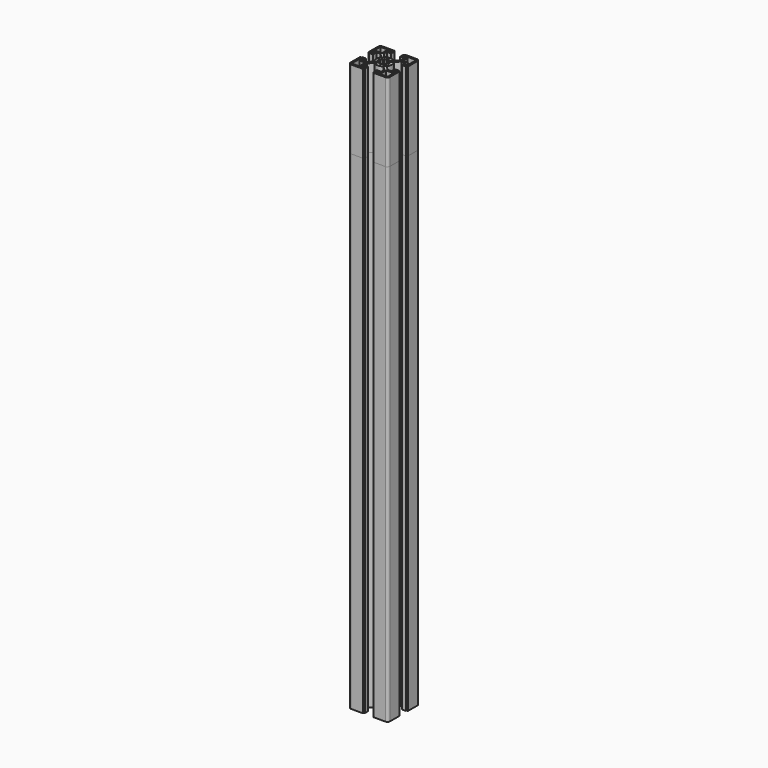
from build123d import *

# Parameters (mm, degrees)
F1_DEPTH = 540
F2_DEPTH = 649
F3_DEPTH = 559


with BuildPart() as f1:
    # F0 (on Top) → F1 (new body)
    with BuildSketch(Plane.XY):
        with BuildLine():
            Line((5, -16.5), (5, -21))
            Line((5, -21), (6, -21))
            Line((6, -21), (6, -22.5))
            Line((6, -22.5), (19.5, -22.5))
            ThreePointArc((19.5, -22.5), (21.62132, -21.62132), (22.5, -19.5))
            Line((22.5, -19.5), (22.5, -6))
            Line((22.5, -6), (21, -6))
            Line((21, -6), (21, -5))
            Line((21, -5), (16.5, -5))
            Line((16.5, -5), (16.5, -10))
            Line((16.5, -10), (11.979899, -10))
            Line((11.979899, -10), (7.276443, -5.296544))
            ThreePointArc((7.276443, -5.296544), (9, 0), (7.276443, 5.296544))
            Line((7.276443, 5.296544), (11.979899, 10))
            Line((11.979899, 10), (16.5, 10))
            Line((16.5, 10), (16.5, 5))
            Line((16.5, 5), (21, 5))
            Line((21, 5), (21, 6))
            Line((21, 6), (22.5, 6))
            Line((22.5, 6), (22.5, 19.5))
            ThreePointArc((22.5, 19.5), (21.62132, 21.62132), (19.5, 22.5))
            Line((19.5, 22.5), (6, 22.5))
            Line((6, 22.5), (6, 21))
            Line((6, 21), (5, 21))
            Line((5, 21), (5, 16.5))
            Line((5, 16.5), (10, 16.5))
            Line((10, 16.5), (10, 11.979899))
            Line((10, 11.979899), (5.296544, 7.276443))
            ThreePointArc((5.296544, 7.276443), (0, 9), (-5.296544, 7.276443))
            Line((-5.296544, 7.276443), (-10, 11.979899))
            Line((-10, 11.979899), (-10, 16.5))
            Line((-10, 16.5), (-5, 16.5))
            Line((-5, 16.5), (-5, 21))
            Line((-5, 21), (-6, 21))
            Line((-6, 21), (-6, 22.5))
            Line((-6, 22.5), (-19.5, 22.5))
            ThreePointArc((-19.5, 22.5), (-21.62132, 21.62132), (-22.5, 19.5))
            Line((-22.5, 19.5), (-22.5, 6))
            Line((-22.5, 6), (-21, 6))
            Line((-21, 6), (-21, 5))
            Line((-21, 5), (-16.5, 5))
            Line((-16.5, 5), (-16.5, 10))
            Line((-16.5, 10), (-11.979899, 10))
            Line((-11.979899, 10), (-7.276443, 5.296544))
            ThreePointArc((-7.276443, 5.296544), (-9, 0), (-7.276443, -5.296544))
            Line((-7.276443, -5.296544), (-11.979899, -10))
            Line((-11.979899, -10), (-16.5, -10))
            Line((-16.5, -10), (-16.5, -5))
            Line((-16.5, -5), (-21, -5))
            Line((-21, -5), (-21, -6))
            Line((-21, -6), (-22.5, -6))
            Line((-22.5, -6), (-22.5, -19.5))
            ThreePointArc((-22.5, -19.5), (-21.62132, -21.62132), (-19.5, -22.5))
            Line((-19.5, -22.5), (-6, -22.5))
            Line((-6, -22.5), (-6, -21))
            Line((-6, -21), (-5, -21))
            Line((-5, -21), (-5, -16.5))
            Line((-5, -16.5), (-10, -16.5))
            Line((-10, -16.5), (-10, -11.979899))
            Line((-10, -11.979899), (-5.296544, -7.276443))
            ThreePointArc((-5.296544, -7.276443), (0, -9), (5.296544, -7.276443))
            Line((5.296544, -7.276443), (10, -11.979899))
            Line((10, -11.979899), (10, -16.5))
            Line((10, -16.5), (5, -16.5))
        make_face()
        Polygon((-18.500101, -11.98), (-11.98, -11.98), (-11.98, -18.500101), (-7.000101, -18.500101), (-7.000101, -20.500101), (-20.500101, -20.500101), (-20.500101, -7.000101), (-18.500101, -7.000101), align=None, mode=Mode.SUBTRACT)
        Polygon((11.98, -11.98), (18.500101, -11.98), (18.500101, -7.000101), (20.500101, -7.000101), (20.500101, -20.500101), (7.000101, -20.500101), (7.000101, -18.500101), (11.98, -18.500101), align=None, mode=Mode.SUBTRACT)
        Polygon((-20.500101, 20.500101), (-7.000101, 20.500101), (-7.000101, 18.500101), (-11.98, 18.500101), (-11.98, 11.98), (-18.500101, 11.98), (-18.500101, 7.000101), (-20.500101, 7.000101), align=None, mode=Mode.SUBTRACT)
        with BuildLine():
            ThreePointArc((0.749402, 4.943521), (1.874247, 4.635429), (2.897117, 4.075133))
            Line((2.897117, 4.075133), (4.635387, 6.520213))
            ThreePointArc((4.635387, 6.520213), (5.656854, 5.656854), (6.520213, 4.635387))
            Line((6.520213, 4.635387), (4.075133, 2.897117))
            ThreePointArc((4.075133, 2.897117), (4.635429, 1.874247), (4.943521, 0.749402))
            Line((4.943521, 0.749402), (5.932225, 0.899283))
            ThreePointArc((5.932225, 0.899283), (6, 0), (5.932225, -0.899283))
            Line((5.932225, -0.899283), (4.943521, -0.749402))
            ThreePointArc((4.943521, -0.749402), (4.635429, -1.874247), (4.075133, -2.897117))
            Line((4.075133, -2.897117), (6.520213, -4.635387))
            ThreePointArc((6.520213, -4.635387), (5.656854, -5.656854), (4.635387, -6.520213))
            Line((4.635387, -6.520213), (2.897117, -4.075133))
            ThreePointArc((2.897117, -4.075133), (1.874247, -4.635429), (0.749402, -4.943521))
            Line((0.749402, -4.943521), (0.899283, -5.932225))
            ThreePointArc((0.899283, -5.932225), (0, -6), (-0.899283, -5.932225))
            Line((-0.899283, -5.932225), (-0.749402, -4.943521))
            ThreePointArc((-0.749402, -4.943521), (-1.874247, -4.635429), (-2.897117, -4.075133))
            Line((-2.897117, -4.075133), (-4.635387, -6.520213))
            ThreePointArc((-4.635387, -6.520213), (-5.656854, -5.656854), (-6.520213, -4.635387))
            Line((-6.520213, -4.635387), (-4.075133, -2.897117))
            ThreePointArc((-4.075133, -2.897117), (-4.635429, -1.874247), (-4.943521, -0.749402))
            Line((-4.943521, -0.749402), (-5.932225, -0.899283))
            ThreePointArc((-5.932225, -0.899283), (-6, 0), (-5.932225, 0.899283))
            Line((-5.932225, 0.899283), (-4.943521, 0.749402))
            ThreePointArc((-4.943521, 0.749402), (-4.635429, 1.874247), (-4.075133, 2.897117))
            Line((-4.075133, 2.897117), (-6.520213, 4.635387))
            ThreePointArc((-6.520213, 4.635387), (-5.656854, 5.656854), (-4.635387, 6.520213))
            Line((-4.635387, 6.520213), (-2.897117, 4.075133))
            ThreePointArc((-2.897117, 4.075133), (-1.874247, 4.635429), (-0.749402, 4.943521))
            Line((-0.749402, 4.943521), (-0.899283, 5.932225))
            ThreePointArc((-0.899283, 5.932225), (0, 6), (0.899283, 5.932225))
            Line((0.899283, 5.932225), (0.749402, 4.943521))
        make_face(mode=Mode.SUBTRACT)
        Polygon((18.500101, 11.98), (11.98, 11.98), (11.98, 18.500101), (7.000101, 18.500101), (7.000101, 20.500101), (20.500101, 20.500101), (20.500101, 7.000101), (18.500101, 7.000101), align=None, mode=Mode.SUBTRACT)
    extrude(amount=F1_DEPTH)


with BuildPart() as f2:
    # F0 (on Top) → F2 (new body)
    with BuildSketch(Plane.XY):
        with BuildLine():
            Line((5, -16.5), (5, -21))
            Line((5, -21), (6, -21))
            Line((6, -21), (6, -22.5))
            Line((6, -22.5), (19.5, -22.5))
            ThreePointArc((19.5, -22.5), (21.62132, -21.62132), (22.5, -19.5))
            Line((22.5, -19.5), (22.5, -6))
            Line((22.5, -6), (21, -6))
            Line((21, -6), (21, -5))
            Line((21, -5), (16.5, -5))
            Line((16.5, -5), (16.5, -10))
            Line((16.5, -10), (11.979899, -10))
            Line((11.979899, -10), (7.276443, -5.296544))
            ThreePointArc((7.276443, -5.296544), (9, 0), (7.276443, 5.296544))
            Line((7.276443, 5.296544), (11.979899, 10))
            Line((11.979899, 10), (16.5, 10))
            Line((16.5, 10), (16.5, 5))
            Line((16.5, 5), (21, 5))
            Line((21, 5), (21, 6))
            Line((21, 6), (22.5, 6))
            Line((22.5, 6), (22.5, 19.5))
            ThreePointArc((22.5, 19.5), (21.62132, 21.62132), (19.5, 22.5))
            Line((19.5, 22.5), (6, 22.5))
            Line((6, 22.5), (6, 21))
            Line((6, 21), (5, 21))
            Line((5, 21), (5, 16.5))
            Line((5, 16.5), (10, 16.5))
            Line((10, 16.5), (10, 11.979899))
            Line((10, 11.979899), (5.296544, 7.276443))
            ThreePointArc((5.296544, 7.276443), (0, 9), (-5.296544, 7.276443))
            Line((-5.296544, 7.276443), (-10, 11.979899))
            Line((-10, 11.979899), (-10, 16.5))
            Line((-10, 16.5), (-5, 16.5))
            Line((-5, 16.5), (-5, 21))
            Line((-5, 21), (-6, 21))
            Line((-6, 21), (-6, 22.5))
            Line((-6, 22.5), (-19.5, 22.5))
            ThreePointArc((-19.5, 22.5), (-21.62132, 21.62132), (-22.5, 19.5))
            Line((-22.5, 19.5), (-22.5, 6))
            Line((-22.5, 6), (-21, 6))
            Line((-21, 6), (-21, 5))
            Line((-21, 5), (-16.5, 5))
            Line((-16.5, 5), (-16.5, 10))
            Line((-16.5, 10), (-11.979899, 10))
            Line((-11.979899, 10), (-7.276443, 5.296544))
            ThreePointArc((-7.276443, 5.296544), (-9, 0), (-7.276443, -5.296544))
            Line((-7.276443, -5.296544), (-11.979899, -10))
            Line((-11.979899, -10), (-16.5, -10))
            Line((-16.5, -10), (-16.5, -5))
            Line((-16.5, -5), (-21, -5))
            Line((-21, -5), (-21, -6))
            Line((-21, -6), (-22.5, -6))
            Line((-22.5, -6), (-22.5, -19.5))
            ThreePointArc((-22.5, -19.5), (-21.62132, -21.62132), (-19.5, -22.5))
            Line((-19.5, -22.5), (-6, -22.5))
            Line((-6, -22.5), (-6, -21))
            Line((-6, -21), (-5, -21))
            Line((-5, -21), (-5, -16.5))
            Line((-5, -16.5), (-10, -16.5))
            Line((-10, -16.5), (-10, -11.979899))
            Line((-10, -11.979899), (-5.296544, -7.276443))
            ThreePointArc((-5.296544, -7.276443), (0, -9), (5.296544, -7.276443))
            Line((5.296544, -7.276443), (10, -11.979899))
            Line((10, -11.979899), (10, -16.5))
            Line((10, -16.5), (5, -16.5))
        make_face()
        Polygon((-18.500101, -11.98), (-11.98, -11.98), (-11.98, -18.500101), (-7.000101, -18.500101), (-7.000101, -20.500101), (-20.500101, -20.500101), (-20.500101, -7.000101), (-18.500101, -7.000101), align=None, mode=Mode.SUBTRACT)
        Polygon((11.98, -11.98), (18.500101, -11.98), (18.500101, -7.000101), (20.500101, -7.000101), (20.500101, -20.500101), (7.000101, -20.500101), (7.000101, -18.500101), (11.98, -18.500101), align=None, mode=Mode.SUBTRACT)
        Polygon((-20.500101, 20.500101), (-7.000101, 20.500101), (-7.000101, 18.500101), (-11.98, 18.500101), (-11.98, 11.98), (-18.500101, 11.98), (-18.500101, 7.000101), (-20.500101, 7.000101), align=None, mode=Mode.SUBTRACT)
        with BuildLine():
            ThreePointArc((0.749402, 4.943521), (1.874247, 4.635429), (2.897117, 4.075133))
            Line((2.897117, 4.075133), (4.635387, 6.520213))
            ThreePointArc((4.635387, 6.520213), (5.656854, 5.656854), (6.520213, 4.635387))
            Line((6.520213, 4.635387), (4.075133, 2.897117))
            ThreePointArc((4.075133, 2.897117), (4.635429, 1.874247), (4.943521, 0.749402))
            Line((4.943521, 0.749402), (5.932225, 0.899283))
            ThreePointArc((5.932225, 0.899283), (6, 0), (5.932225, -0.899283))
            Line((5.932225, -0.899283), (4.943521, -0.749402))
            ThreePointArc((4.943521, -0.749402), (4.635429, -1.874247), (4.075133, -2.897117))
            Line((4.075133, -2.897117), (6.520213, -4.635387))
            ThreePointArc((6.520213, -4.635387), (5.656854, -5.656854), (4.635387, -6.520213))
            Line((4.635387, -6.520213), (2.897117, -4.075133))
            ThreePointArc((2.897117, -4.075133), (1.874247, -4.635429), (0.749402, -4.943521))
            Line((0.749402, -4.943521), (0.899283, -5.932225))
            ThreePointArc((0.899283, -5.932225), (0, -6), (-0.899283, -5.932225))
            Line((-0.899283, -5.932225), (-0.749402, -4.943521))
            ThreePointArc((-0.749402, -4.943521), (-1.874247, -4.635429), (-2.897117, -4.075133))
            Line((-2.897117, -4.075133), (-4.635387, -6.520213))
            ThreePointArc((-4.635387, -6.520213), (-5.656854, -5.656854), (-6.520213, -4.635387))
            Line((-6.520213, -4.635387), (-4.075133, -2.897117))
            ThreePointArc((-4.075133, -2.897117), (-4.635429, -1.874247), (-4.943521, -0.749402))
            Line((-4.943521, -0.749402), (-5.932225, -0.899283))
            ThreePointArc((-5.932225, -0.899283), (-6, 0), (-5.932225, 0.899283))
            Line((-5.932225, 0.899283), (-4.943521, 0.749402))
            ThreePointArc((-4.943521, 0.749402), (-4.635429, 1.874247), (-4.075133, 2.897117))
            Line((-4.075133, 2.897117), (-6.520213, 4.635387))
            ThreePointArc((-6.520213, 4.635387), (-5.656854, 5.656854), (-4.635387, 6.520213))
            Line((-4.635387, 6.520213), (-2.897117, 4.075133))
            ThreePointArc((-2.897117, 4.075133), (-1.874247, 4.635429), (-0.749402, 4.943521))
            Line((-0.749402, 4.943521), (-0.899283, 5.932225))
            ThreePointArc((-0.899283, 5.932225), (0, 6), (0.899283, 5.932225))
            Line((0.899283, 5.932225), (0.749402, 4.943521))
        make_face(mode=Mode.SUBTRACT)
        Polygon((18.500101, 11.98), (11.98, 11.98), (11.98, 18.500101), (7.000101, 18.500101), (7.000101, 20.500101), (20.500101, 20.500101), (20.500101, 7.000101), (18.500101, 7.000101), align=None, mode=Mode.SUBTRACT)
    extrude(amount=F2_DEPTH)


with BuildPart() as f3:
    # F0 (on Top) → F3 (new body)
    with BuildSketch(Plane.XY):
        with BuildLine():
            Line((5, -16.5), (5, -21))
            Line((5, -21), (6, -21))
            Line((6, -21), (6, -22.5))
            Line((6, -22.5), (19.5, -22.5))
            ThreePointArc((19.5, -22.5), (21.62132, -21.62132), (22.5, -19.5))
            Line((22.5, -19.5), (22.5, -6))
            Line((22.5, -6), (21, -6))
            Line((21, -6), (21, -5))
            Line((21, -5), (16.5, -5))
            Line((16.5, -5), (16.5, -10))
            Line((16.5, -10), (11.979899, -10))
            Line((11.979899, -10), (7.276443, -5.296544))
            ThreePointArc((7.276443, -5.296544), (9, 0), (7.276443, 5.296544))
            Line((7.276443, 5.296544), (11.979899, 10))
            Line((11.979899, 10), (16.5, 10))
            Line((16.5, 10), (16.5, 5))
            Line((16.5, 5), (21, 5))
            Line((21, 5), (21, 6))
            Line((21, 6), (22.5, 6))
            Line((22.5, 6), (22.5, 19.5))
            ThreePointArc((22.5, 19.5), (21.62132, 21.62132), (19.5, 22.5))
            Line((19.5, 22.5), (6, 22.5))
            Line((6, 22.5), (6, 21))
            Line((6, 21), (5, 21))
            Line((5, 21), (5, 16.5))
            Line((5, 16.5), (10, 16.5))
            Line((10, 16.5), (10, 11.979899))
            Line((10, 11.979899), (5.296544, 7.276443))
            ThreePointArc((5.296544, 7.276443), (0, 9), (-5.296544, 7.276443))
            Line((-5.296544, 7.276443), (-10, 11.979899))
            Line((-10, 11.979899), (-10, 16.5))
            Line((-10, 16.5), (-5, 16.5))
            Line((-5, 16.5), (-5, 21))
            Line((-5, 21), (-6, 21))
            Line((-6, 21), (-6, 22.5))
            Line((-6, 22.5), (-19.5, 22.5))
            ThreePointArc((-19.5, 22.5), (-21.62132, 21.62132), (-22.5, 19.5))
            Line((-22.5, 19.5), (-22.5, 6))
            Line((-22.5, 6), (-21, 6))
            Line((-21, 6), (-21, 5))
            Line((-21, 5), (-16.5, 5))
            Line((-16.5, 5), (-16.5, 10))
            Line((-16.5, 10), (-11.979899, 10))
            Line((-11.979899, 10), (-7.276443, 5.296544))
            ThreePointArc((-7.276443, 5.296544), (-9, 0), (-7.276443, -5.296544))
            Line((-7.276443, -5.296544), (-11.979899, -10))
            Line((-11.979899, -10), (-16.5, -10))
            Line((-16.5, -10), (-16.5, -5))
            Line((-16.5, -5), (-21, -5))
            Line((-21, -5), (-21, -6))
            Line((-21, -6), (-22.5, -6))
            Line((-22.5, -6), (-22.5, -19.5))
            ThreePointArc((-22.5, -19.5), (-21.62132, -21.62132), (-19.5, -22.5))
            Line((-19.5, -22.5), (-6, -22.5))
            Line((-6, -22.5), (-6, -21))
            Line((-6, -21), (-5, -21))
            Line((-5, -21), (-5, -16.5))
            Line((-5, -16.5), (-10, -16.5))
            Line((-10, -16.5), (-10, -11.979899))
            Line((-10, -11.979899), (-5.296544, -7.276443))
            ThreePointArc((-5.296544, -7.276443), (0, -9), (5.296544, -7.276443))
            Line((5.296544, -7.276443), (10, -11.979899))
            Line((10, -11.979899), (10, -16.5))
            Line((10, -16.5), (5, -16.5))
        make_face()
        Polygon((-18.500101, -11.98), (-11.98, -11.98), (-11.98, -18.500101), (-7.000101, -18.500101), (-7.000101, -20.500101), (-20.500101, -20.500101), (-20.500101, -7.000101), (-18.500101, -7.000101), align=None, mode=Mode.SUBTRACT)
        Polygon((11.98, -11.98), (18.500101, -11.98), (18.500101, -7.000101), (20.500101, -7.000101), (20.500101, -20.500101), (7.000101, -20.500101), (7.000101, -18.500101), (11.98, -18.500101), align=None, mode=Mode.SUBTRACT)
        Polygon((-20.500101, 20.500101), (-7.000101, 20.500101), (-7.000101, 18.500101), (-11.98, 18.500101), (-11.98, 11.98), (-18.500101, 11.98), (-18.500101, 7.000101), (-20.500101, 7.000101), align=None, mode=Mode.SUBTRACT)
        with BuildLine():
            ThreePointArc((0.749402, 4.943521), (1.874247, 4.635429), (2.897117, 4.075133))
            Line((2.897117, 4.075133), (4.635387, 6.520213))
            ThreePointArc((4.635387, 6.520213), (5.656854, 5.656854), (6.520213, 4.635387))
            Line((6.520213, 4.635387), (4.075133, 2.897117))
            ThreePointArc((4.075133, 2.897117), (4.635429, 1.874247), (4.943521, 0.749402))
            Line((4.943521, 0.749402), (5.932225, 0.899283))
            ThreePointArc((5.932225, 0.899283), (6, 0), (5.932225, -0.899283))
            Line((5.932225, -0.899283), (4.943521, -0.749402))
            ThreePointArc((4.943521, -0.749402), (4.635429, -1.874247), (4.075133, -2.897117))
            Line((4.075133, -2.897117), (6.520213, -4.635387))
            ThreePointArc((6.520213, -4.635387), (5.656854, -5.656854), (4.635387, -6.520213))
            Line((4.635387, -6.520213), (2.897117, -4.075133))
            ThreePointArc((2.897117, -4.075133), (1.874247, -4.635429), (0.749402, -4.943521))
            Line((0.749402, -4.943521), (0.899283, -5.932225))
            ThreePointArc((0.899283, -5.932225), (0, -6), (-0.899283, -5.932225))
            Line((-0.899283, -5.932225), (-0.749402, -4.943521))
            ThreePointArc((-0.749402, -4.943521), (-1.874247, -4.635429), (-2.897117, -4.075133))
            Line((-2.897117, -4.075133), (-4.635387, -6.520213))
            ThreePointArc((-4.635387, -6.520213), (-5.656854, -5.656854), (-6.520213, -4.635387))
            Line((-6.520213, -4.635387), (-4.075133, -2.897117))
            ThreePointArc((-4.075133, -2.897117), (-4.635429, -1.874247), (-4.943521, -0.749402))
            Line((-4.943521, -0.749402), (-5.932225, -0.899283))
            ThreePointArc((-5.932225, -0.899283), (-6, 0), (-5.932225, 0.899283))
            Line((-5.932225, 0.899283), (-4.943521, 0.749402))
            ThreePointArc((-4.943521, 0.749402), (-4.635429, 1.874247), (-4.075133, 2.897117))
            Line((-4.075133, 2.897117), (-6.520213, 4.635387))
            ThreePointArc((-6.520213, 4.635387), (-5.656854, 5.656854), (-4.635387, 6.520213))
            Line((-4.635387, 6.520213), (-2.897117, 4.075133))
            ThreePointArc((-2.897117, 4.075133), (-1.874247, 4.635429), (-0.749402, 4.943521))
            Line((-0.749402, 4.943521), (-0.899283, 5.932225))
            ThreePointArc((-0.899283, 5.932225), (0, 6), (0.899283, 5.932225))
            Line((0.899283, 5.932225), (0.749402, 4.943521))
        make_face(mode=Mode.SUBTRACT)
        Polygon((18.500101, 11.98), (11.98, 11.98), (11.98, 18.500101), (7.000101, 18.500101), (7.000101, 20.500101), (20.500101, 20.500101), (20.500101, 7.000101), (18.500101, 7.000101), align=None, mode=Mode.SUBTRACT)
    extrude(amount=F3_DEPTH)


solid = Compound([f1.part, f2.part, f3.part])
